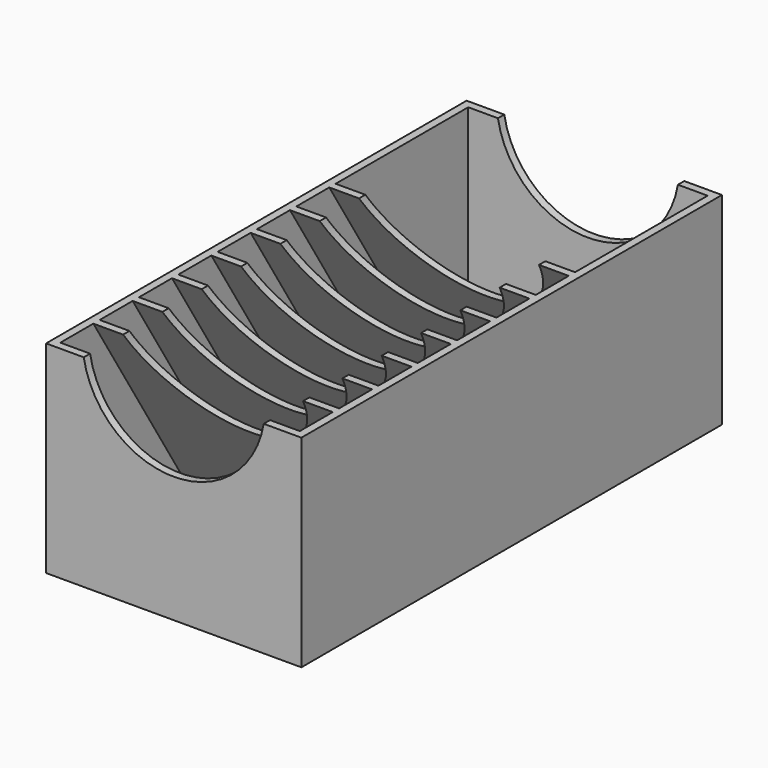
from build123d import *

# Parameters (mm, degrees)
F0_W     = 81.788
F0_H     = 168.402
F1_DEPTH = 64.77
F2_W     = 76.708
F2_H     = 163.322
F3_DEPTH = 62.23
F5_DEPTH = 81.788
F7_DEPTH = 177.8


with BuildPart() as f1:
    # F0 (on Top) → F1 (new body)
    with BuildSketch(Plane.XY):
        Rectangle(F0_W, F0_H)
    extrude(amount=F1_DEPTH)

    # F2 (on face) → F3 (cut)
    with BuildSketch(Plane.XY.offset(64.77)):
        Rectangle(F2_W, F2_H)
    extrude(amount=-F3_DEPTH, mode=Mode.SUBTRACT)

    # F4 (on face) → F5 (join)
    with BuildSketch(Plane.YZ.offset(40.894)):
        Polygon((26.035, 64.77), (66.175841, 0), (68.715841, 0), (28.575, 64.77), align=None)
        Polygon((10.287, 64.77), (50.427841, 0), (52.967841, 0), (12.827, 64.77), align=None)
        Polygon((-5.461, 64.77), (34.679841, 0), (37.219841, 0), (-2.921, 64.77), align=None)
        Polygon((-21.209, 64.77), (18.931841, 0), (21.471841, 0), (-18.669, 64.77), align=None)
        Polygon((-36.957, 64.77), (3.183841, 0), (5.723841, 0), (-34.417, 64.77), align=None)
        Polygon((-52.705, 64.77), (-12.564159, 0), (-10.024159, 0), (-50.165, 64.77), align=None)
        Polygon((-68.453, 64.77), (-28.312159, 0), (-25.772159, 0), (-65.913, 64.77), align=None)
    extrude(amount=-F5_DEPTH)

    # F6 (on face) → F7 (cut)
    with BuildSketch(Plane.XZ.offset(84.201)):
        with BuildLine():
            Line((28.829, 64.77), (-28.829, 64.77))
            ThreePointArc((-28.829, 64.77), (0, 40.450578), (28.829, 64.77))
        make_face()
    extrude(amount=-F7_DEPTH, mode=Mode.SUBTRACT)


solid = f1.part
